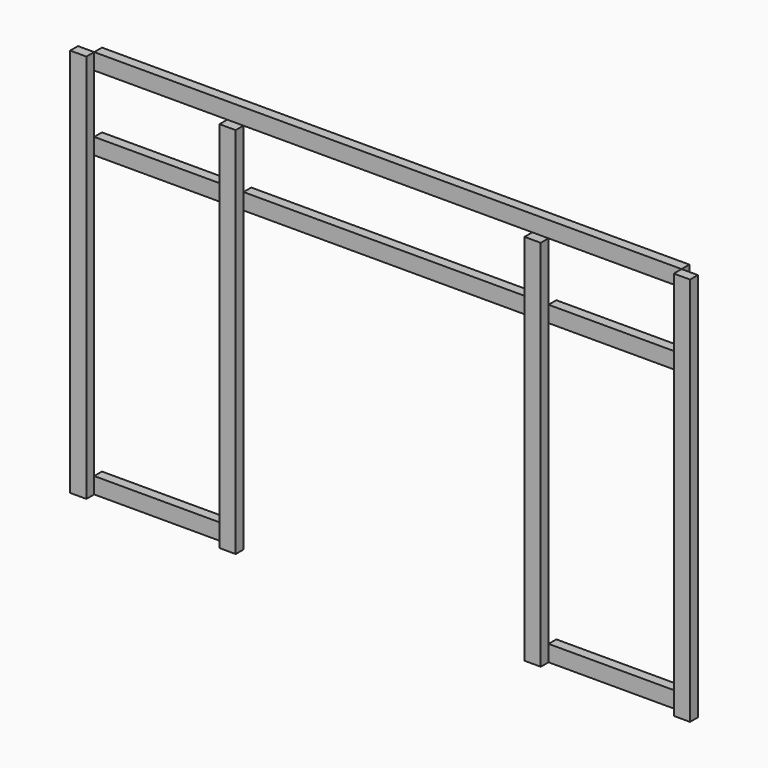
from build123d import *

# Parameters (mm, degrees)
F1_DEPTH = 19.05
F0_W     = 260.349978
F0_H     = 31.75
F0_W_2   = 260.35
F2_DEPTH = 19.05


with BuildPart() as f1:
    # F0 (on Front) → F1 (new body)
    with BuildSketch(Plane.XZ):
        Polygon((-1181.1, 730.25), (-1181.1, 762), (-1212.85, 762), (-1212.85, 0), (-1181.1, 0), (-1181.1, 31.75), (-1181.1, 584.2), (-1181.1, 615.95), align=None)
        Polygon((-888.999999, 730.25), (-920.750022, 730.25), (-920.750022, 615.95), (-920.750022, 584.2), (-920.750022, 31.75), (-920.750022, 0), (-888.999999, 0), (-888.999999, 31.75), (-888.999999, 584.2), (-888.999999, 615.95), align=None)
        Polygon((-323.85, 0), (-292.1, 0), (-292.1, 31.75), (-292.1, 584.2), (-292.1, 615.95), (-292.1, 730.25), (-323.85, 730.25), (-323.85, 615.95), (-323.85, 584.2), (-323.85, 31.75), align=None)
        Polygon((-31.75, 0), (0, 0), (0, 762), (-31.75, 762), (-31.75, 730.25), (-31.75, 615.95), (-31.75, 584.2), (-31.75, 31.75), align=None)
    extrude(amount=F1_DEPTH)


with BuildPart() as f2:
    # F0 (on Front) → F2 (new body)
    with BuildSketch(Plane.XZ):
        with Locations((-1050.925011, 15.875)):
            Rectangle(F0_W, F0_H)
        with Locations((-161.925, 15.875)):
            Rectangle(F0_W_2, F0_H)
        Polygon((-330.2, 584.2), (-323.85, 584.2), (-323.85, 615.95), (-330.2, 615.95), (-882.65, 615.95), (-888.999999, 615.95), (-888.999999, 584.2), (-882.65, 584.2), align=None)
        with Locations((-1050.925011, 600.075)):
            Rectangle(F0_W, F0_H)
        Polygon((-31.75, 730.25), (-31.75, 762), (-1181.1, 762), (-1181.1, 730.25), (-920.750022, 730.25), (-888.999999, 730.25), (-323.85, 730.25), (-292.1, 730.25), align=None)
        with Locations((-161.925, 600.075)):
            Rectangle(F0_W_2, F0_H)
    extrude(amount=-F2_DEPTH)


solid = Compound([f1.part, f2.part])
